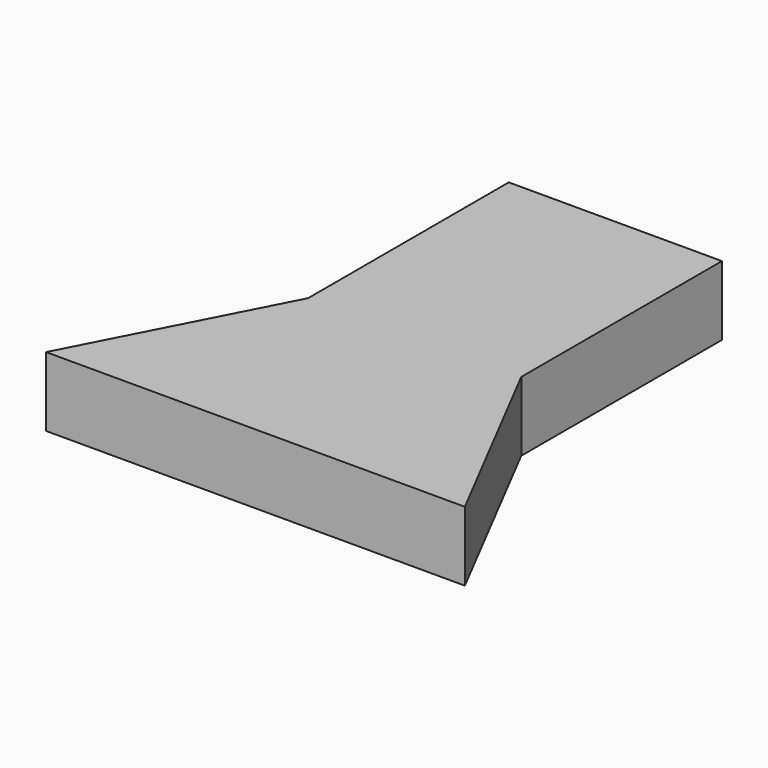
from build123d import *

# Parameters (mm, degrees)
F0_W     = 77.960826
F0_H     = 91.74003
F1_DEPTH = 25.4
F2_DEPTH = 25.4


with BuildPart() as f1:
    # F0 (on Top) → F1 (new body)
    with BuildSketch(Plane.XY):
        with Locations((0, 23.481315)):
            Rectangle(F0_W, F0_H)
    extrude(amount=F1_DEPTH)

    # F0 (on Top) → F2 (join)
    with BuildSketch(Plane.XY):
        Polygon((-76.578632, -95.176995), (76.578632, -95.176995), (38.980413, -22.3887), (-38.980413, -22.3887), align=None)
    extrude(amount=F2_DEPTH)


solid = f1.part
